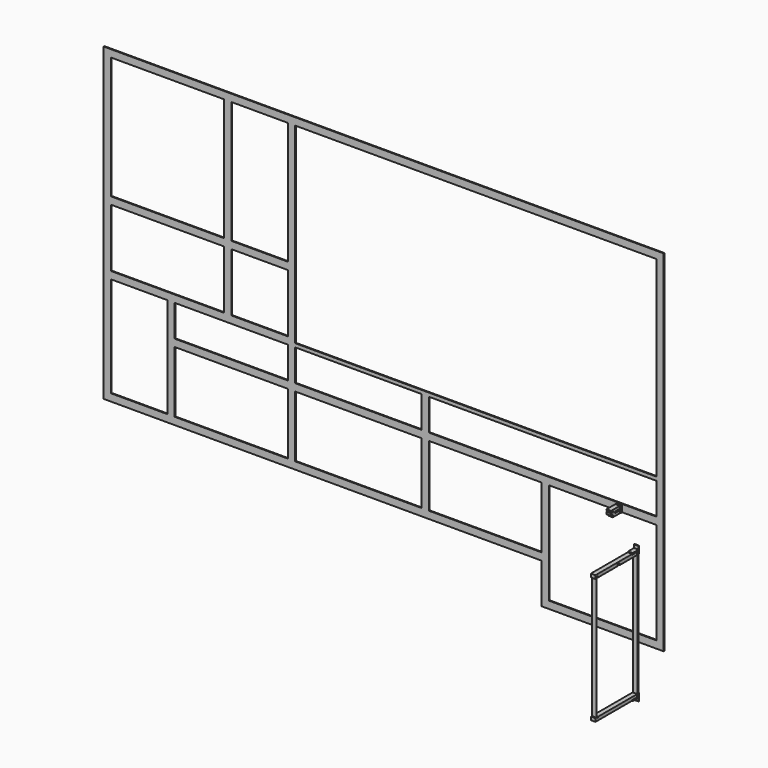
from build123d import *

# Parameters (mm, degrees)
F0_W     = 620
F0_H     = 40
F0_W_2   = 310
F0_W_3   = 40
F0_H_2   = 337
F0_H_3   = 173
F1_DEPTH = 5
F2_W     = 6
F2_H     = 701
F2_W_2   = 2.367705
F2_H_2   = 678
F3_DEPTH = 25
F5_DEPTH = 25
F6_DEPTH = 25


with BuildPart() as f1:
    # F0 (on Front) → F1 (new body)
    with BuildSketch(Plane.XZ):
        Polygon((-2959.253504, 2099.447314), (-2999.253504, 2139.447314), (-2999.253504, 439.447314), (-2959.253504, 479.447314), (-2959.253504, 1029.447314), (-2959.253504, 1069.447314), (-2959.253504, 1389.447314), (-2959.253504, 1429.447314), align=None)
        Polygon((70.746496, 2139.447314), (-2999.253504, 2139.447314), (-2959.253504, 2099.447314), (-2339.253504, 2099.447314), (-2299.253504, 2099.447314), (-1989.253504, 2099.447314), (-1949.253504, 2099.447314), (30.746496, 2099.447314), align=None)
        Polygon((70.746496, 219.447314), (70.746496, 2139.447314), (30.746496, 2099.447314), (30.746496, 1079.447314), (30.746496, 1049.447314), (30.746496, 1029.447314), (30.746496, 856.447314), (30.746496, 816.447314), (30.746496, 259.447314), align=None)
        Polygon((-2959.253504, 479.447314), (-2999.253504, 439.447314), (-599.253504, 439.447314), (-559.253504, 479.447314), (-599.253504, 479.447314), (-1216.253504, 479.447314), (-1256.253504, 479.447314), (-1949.253504, 479.447314), (-1989.253504, 479.447314), (-2609.253504, 479.447314), (-2649.253504, 479.447314), align=None)
        Polygon((-599.253504, 219.447314), (70.746496, 219.447314), (30.746496, 259.447314), (-559.253504, 259.447314), align=None)
        Polygon((-559.253504, 479.447314), (-599.253504, 439.447314), (-599.253504, 219.447314), (-559.253504, 259.447314), align=None)
        with Locations((-2649.253504, 1409.447314)):
            Rectangle(F0_W, F0_H)
        Polygon((-2299.253504, 2099.447314), (-2339.253504, 2099.447314), (-2339.253504, 1429.447314), (-2339.253504, 1389.447314), (-2339.253504, 1069.447314), (-2299.253504, 1069.447314), (-2299.253504, 1389.447314), (-2299.253504, 1429.447314), align=None)
        with Locations((-2144.253504, 1409.447314)):
            Rectangle(F0_W_2, F0_H)
        Polygon((-1949.253504, 1079.447314), (-1949.253504, 2099.447314), (-1989.253504, 2099.447314), (-1989.253504, 1429.447314), (-1989.253504, 1389.447314), (-1989.253504, 1069.447314), (-1989.253504, 1029.447314), (-1989.253504, 856.447314), (-1949.253504, 856.447314), (-1949.253504, 1029.447314), (-1949.253504, 1049.447314), align=None)
        Polygon((-2959.253504, 1069.447314), (-2959.253504, 1029.447314), (-2649.253504, 1029.447314), (-2609.253504, 1029.447314), (-1989.253504, 1029.447314), (-1989.253504, 1069.447314), (-2299.253504, 1069.447314), (-2339.253504, 1069.447314), align=None)
        Polygon((-2649.253504, 1029.447314), (-2649.253504, 479.447314), (-2609.253504, 479.447314), (-2609.253504, 816.447314), (-2609.253504, 856.447314), (-2609.253504, 1029.447314), align=None)
        Polygon((-559.253504, 816.447314), (30.746496, 816.447314), (30.746496, 856.447314), (-1216.253504, 856.447314), (-1256.253504, 856.447314), (-1949.253504, 856.447314), (-1989.253504, 856.447314), (-2609.253504, 856.447314), (-2609.253504, 816.447314), (-1989.253504, 816.447314), (-1949.253504, 816.447314), (-1256.253504, 816.447314), (-1216.253504, 816.447314), (-599.253504, 816.447314), align=None)
        with Locations((-1969.253504, 647.947314)):
            Rectangle(F0_W_3, F0_H_2)
        Polygon((30.746496, 1029.447314), (30.746496, 1049.447314), (-1949.253504, 1049.447314), (-1949.253504, 1029.447314), (-1256.253504, 1029.447314), (-1216.253504, 1029.447314), align=None)
        with Locations((-1236.253504, 942.947314)):
            Rectangle(F0_W_3, F0_H_3)
        with Locations((-1236.253504, 647.947314)):
            Rectangle(F0_W_3, F0_H_2)
        with Locations((-579.253504, 647.947314)):
            Rectangle(F0_W_3, F0_H_2)
    extrude(amount=F1_DEPTH)


with BuildPart() as f3:
    # F2 (on Right) → F3 (new body)
    with BuildSketch(Plane.YZ):
        Polygon((-115.615857, 9.694815), (-115.615857, 49.694815), (-120.615857, 49.694815), (-120.615857, 32.194815), (-160.615857, 32.194815), (-160.615857, 27.194815), (-120.615857, 27.194815), (-120.615857, 9.694815), align=None)
        Polygon((-115.615857, 719.694815), (-115.615857, 759.694815), (-120.615857, 759.694815), (-120.615857, 742.194815), (-160.615857, 742.194815), (-160.615857, 737.194815), (-120.615857, 737.194815), (-120.615857, 719.694815), align=None)
        with Locations((-124.615857, 384.694815)):
            Rectangle(F2_W, F2_H)
        Polygon((-164.615857, 735.194815), (-164.615857, 738.944089), (-415.615857, 738.944089), (-415.615857, 720.194815), (-409.615857, 720.194815), (-409.615857, 728.944089), (-406.615857, 728.944089), (-406.615857, 720.944089), (-401.615857, 720.944089), (-401.615857, 728.944089), (-398.615857, 728.944089), (-398.615857, 720.944089), (-265.615857, 720.944089), (-265.615857, 731.194815), (-249.615857, 731.194815), (-249.615857, 720.194815), (-129.615857, 720.194815), (-129.615857, 735.194815), align=None)
        Polygon((-164.615857, 34.194815), (-129.615857, 34.194815), (-129.615857, 49.194815), (-398.615857, 49.194815), (-398.615857, 44.194815), (-401.615857, 44.194815), (-401.615857, 49.194815), (-406.615857, 49.194815), (-406.615857, 44.194815), (-406.985492, 44.194815), (-409.353197, 44.194815), (-409.615857, 44.194815), (-409.615857, 49.194815), (-415.615857, 49.194815), (-415.615857, 31.194815), (-164.615857, 31.194815), align=None)
        with Locations((-408.169344, 383.194815)):
            Rectangle(F2_W_2, F2_H_2)
    extrude(amount=F3_DEPTH)


with BuildPart() as f5:
    # F4 (on Right) → F5 (new body)
    with BuildSketch(Plane.YZ):
        Polygon((-239.4242, 990.23865), (-279.4242, 990.23865), (-279.4242, 985.23865), (-239.4242, 985.23865), (-239.4242, 967.73865), (-234.4242, 967.73865), (-234.4242, 1007.73865), (-239.4242, 1007.73865), align=None)
        Polygon((-248.4242, 1005.73865), (-308.4242, 1005.73865), (-308.4242, 1000.73865), (-296.4242, 1000.73865), (-296.4242, 993.73865), (-308.4242, 993.73865), (-308.4242, 987.73865), (-281.422525, 987.73865), (-281.422525, 991.73865), (-248.4242, 991.73865), align=None)
    extrude(amount=F5_DEPTH)


with BuildPart() as f6:
    # F4 (on Right) → F6 (new body)
    with BuildSketch(Plane.YZ):
        Polygon((-281.422525, 983.73865), (-281.422525, 987.73865), (-308.4242, 987.73865), (-308.4242, 981.73865), (-296.4242, 981.73865), (-296.4242, 969.73865), (-248.4242, 969.73865), (-248.4242, 983.73865), align=None)
    extrude(amount=F6_DEPTH)


solid = Compound([f1.part, f3.part, f5.part, f6.part])
